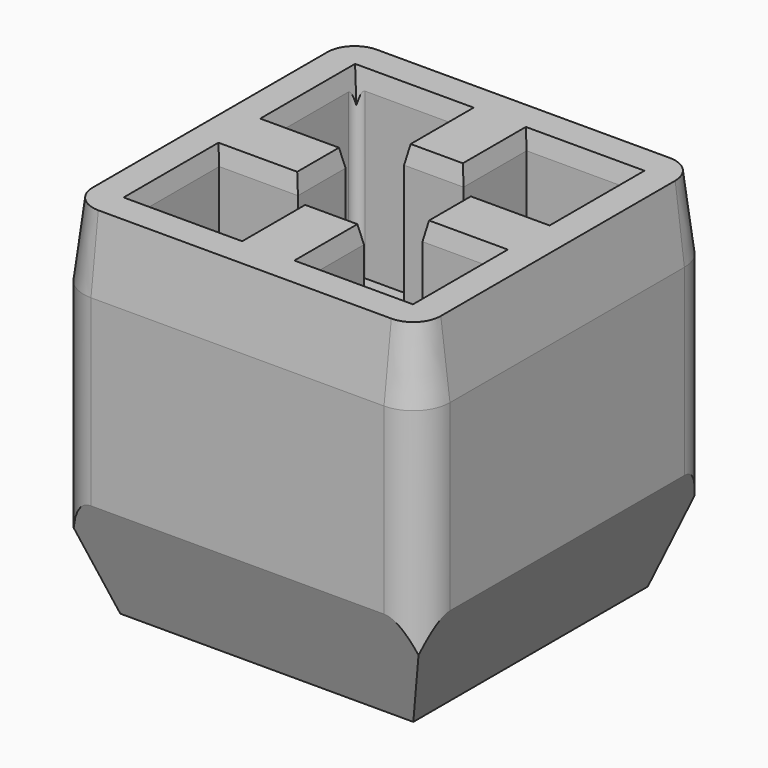
from build123d import *

# Parameters (mm, degrees)
F0_W      = 50.8
F0_H      = 50.8
F0_W_2    = 39.116
F0_H_2    = 39.116
F1_DEPTH  = 25.4
F2_W      = 50.8
F2_H      = 50.8
F3_DEPTH  = 25.4
F4_W      = 10.922
F4_H      = 8.255
F4_W_2    = 8.255
F4_H_2    = 10.922
F5_DEPTH  = 25.4
F6_R      = 7.62
F7_DEPTH  = 6.35
F8_SIZE2  = 15.24
F8_SIZE   = 5.08
F9_R      = 5.08
F10_SIZE2 = 1.27
F10_SIZE  = 10.16
F11_SIZE2 = 2.54
F11_SIZE  = 0.508
F12_R     = 1.27


with BuildPart() as f1:
    # F0 (on Top) → F1 (new body)
    with BuildSketch(Plane.XY):
        Rectangle(F0_W, F0_H)
        Rectangle(F0_W_2, F0_H_2, mode=Mode.SUBTRACT)
    extrude(amount=F1_DEPTH)

    # F2 (on face) → F3 (join)
    with BuildSketch(Plane(origin=(0, 0, 0), x_dir=(1, 0, 0), z_dir=(0, 0, -1))):
        Rectangle(F2_W, F2_H)
    extrude(amount=F3_DEPTH)

    # F4 (on face) → F5 (join)
    with BuildSketch(Plane.XY):
        with Locations((-14.097, 0)):
            Rectangle(F4_W, F4_H)
        with Locations((0, 14.097)):
            Rectangle(F4_W_2, F4_H_2)
        with Locations((14.097, 0)):
            Rectangle(F4_W, F4_H)
        with Locations((0, -14.097)):
            Rectangle(F4_W_2, F4_H_2)
    extrude(amount=F5_DEPTH)

    # F6 (on face) → F7 (cut)
    with BuildSketch(Plane.XY):
        Circle(F6_R)
    extrude(amount=-F7_DEPTH, mode=Mode.SUBTRACT)

    # F8
    f8_edges = [f1.edges().sort_by_distance(p)[0] for p in [
        (25.4, 0, -25.4),
        (0, -25.4, -25.4),
        (-25.4, 0, -25.4),
        (0, 25.4, -25.4),
    ]]
    f8_side = f1.faces().sort_by_distance((0, 0, -25.4))[0]
    chamfer(f8_edges, length=F8_SIZE, length2=F8_SIZE2, reference=f8_side)

    # F9
    f9_edges = [f1.edges().sort_by_distance(p)[0] for p in [
        (25.4, -25.4, 7.62),
        (25.4, 25.4, 7.62),
        (-25.4, 25.4, 7.62),
        (-25.4, -25.4, 7.62),
    ]]
    fillet(f9_edges, radius=F9_R)

    # F10
    f10_edges = [f1.edges().sort_by_distance(p)[0] for p in [
        (0, 25.4, 25.4),
    ]]
    f10_side = f1.faces().sort_by_distance((0, 25.4, 7.62))[0]
    chamfer(f10_edges, length=F10_SIZE, length2=F10_SIZE2, reference=f10_side)

    # F11
    f11_edges = [f1.edges().sort_by_distance(p)[0] for p in [
        (11.84275, -19.558, 25.4),
        (4.1275, -14.097, 25.4),
        (0, -8.636, 25.4),
        (-4.1275, -14.097, 25.4),
        (-11.84275, -19.558, 25.4),
        (-19.558, -11.84275, 25.4),
        (-14.097, -4.1275, 25.4),
        (-8.636, 0, 25.4),
        (-14.097, 4.1275, 25.4),
        (-19.558, 11.84275, 25.4),
        (-11.84275, 19.558, 25.4),
        (-4.1275, 14.097, 25.4),
        (0, 8.636, 25.4),
        (4.1275, 14.097, 25.4),
        (11.84275, 19.558, 25.4),
        (19.558, 11.84275, 25.4),
        (14.097, 4.1275, 25.4),
        (14.097, -4.1275, 25.4),
        (19.558, -11.84275, 25.4),
        (8.636, 0, 25.4),
    ]]
    chamfer(f11_edges, length=F11_SIZE, length2=F11_SIZE2)

    # F12
    f12_edges = [f1.edges().sort_by_distance(p)[0] for p in [
        (-19.558, 19.558, 11.43),
        (19.558, 19.558, 11.43),
        (19.558, -19.558, 11.43),
        (-19.558, -19.558, 11.43),
    ]]
    fillet(f12_edges, radius=F12_R)


solid = f1.part
